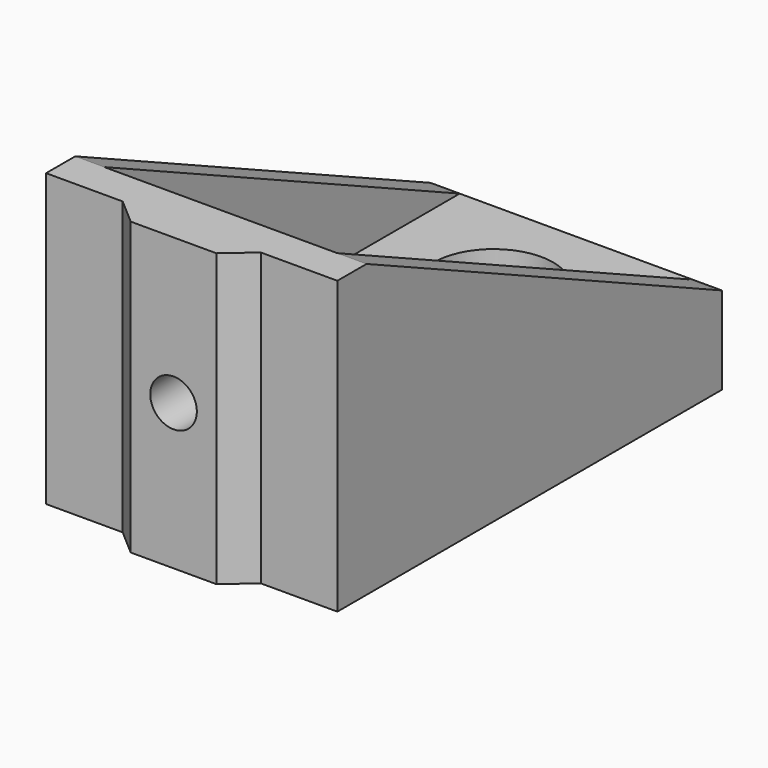
from build123d import *

# Parameters (mm, degrees)
SKETCH_R            = 4.1
PAD_DEPTH           = 6
SKETCH001_W         = 2.5
SKETCH001_H         = 14
PAD001_DEPTH        = 20
PAD002_DEPTH        = 14
PAD003_DEPTH        = 2
LINEARPATTERN_COUNT = 2
LINEARPATTERN_PITCH = 18
SKETCH003_R         = 1.6
POCKET_DEPTH        = 34.561


with BuildPart() as part:
    # Sketch → Pad (new body)
    with BuildSketch(Plane.XY):
        Polygon((-4.74, 0), (-2.94, -1.56), (2.94, -1.56), (4.74, 0), (10, 0), (10, 33), (-10, 33), (-10, 0), align=None)
        with Locations((0, 25.9)):
            Circle(SKETCH_R, mode=Mode.SUBTRACT)
    extrude(amount=PAD_DEPTH)

    # Sketch001 (on Face5 of Pad) → Pad001 (join)
    with BuildSketch(Plane.YZ.offset(10)):
        with Locations((1.25, 13)):
            Rectangle(SKETCH001_W, SKETCH001_H)
    extrude(amount=-PAD001_DEPTH)

    # Pad001 Face5 → Pad002 (add)
    with BuildSketch(Plane(origin=(0, -0.719062, 6), x_dir=(0, 1, 0), z_dir=(0, 0, 1))):
        Polygon((0.719062, -4.74), (0.719062, 4.74), (-0.840938, 2.94), (-0.840938, -2.94), align=None)
    extrude(amount=PAD002_DEPTH)

    # Sketch002 (on Face6 of Pad002) → Pad003 (join)
    with BuildSketch(Plane(origin=(-10, 0, 0), x_dir=(0, -1, 0), z_dir=(-1, 0, 0))):
        Polygon((-33, 6), (-2.5, 20), (-2.5, 6), align=None)
    pad003 = extrude(amount=-PAD003_DEPTH)

    # LinearPattern: Pad003 ×2
    with Locations(*[(i * LINEARPATTERN_PITCH, 0, 0) for i in range(1, LINEARPATTERN_COUNT)]):
        add(pad003)

    # Sketch003 (on Face9 of LinearPattern) → Pocket (cut, through all)
    with BuildSketch(Plane.XZ.offset(1.56)):
        with Locations((0, 10)):
            Circle(SKETCH003_R)
    extrude(amount=-POCKET_DEPTH, mode=Mode.SUBTRACT)


solid = part.part
